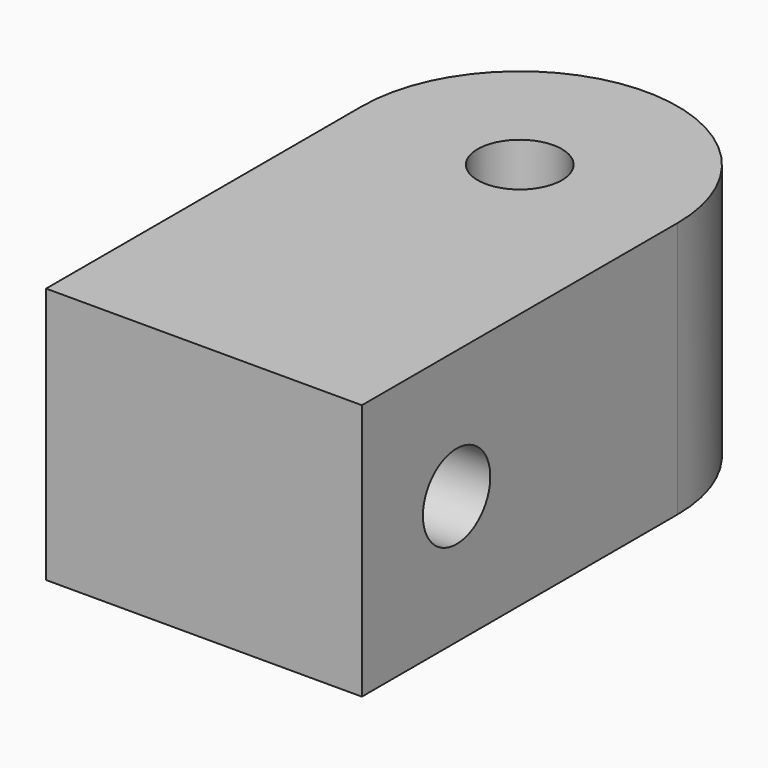
from build123d import *

# Parameters (mm, degrees)
PAD_DEPTH       = 9.75
SKETCH001_R     = 1.6
POCKET_DEPTH    = 9.751
SKETCH002_R     = 1.6
POCKET001_DEPTH = 12.001
POCKET002_DEPTH = 2.4


with BuildPart() as part:
    # Sketch → Pad (new body)
    with BuildSketch(Plane.XY):
        with BuildLine():
            ThreePointArc((6, 7.5), (0, 13.5), (-6, 7.5))
            Line((-6, 7.5), (-6, -7.5))
            Line((-6, -7.5), (6, -7.5))
            Line((6, -7.5), (6, 7.5))
        make_face()
    extrude(amount=PAD_DEPTH)

    # Sketch001 (on Face5 of Pad) → Pocket (cut, through all)
    with BuildSketch(Plane(origin=(0, 0, 0), x_dir=(1, 0, 0), z_dir=(0, 0, -1))):
        with Locations((0, -7.5)):
            Circle(SKETCH001_R)
    extrude(amount=-POCKET_DEPTH, mode=Mode.SUBTRACT)

    # Sketch002 (on Face3 of Pocket) → Pocket001 (cut, through all)
    with BuildSketch(Plane(origin=(-6, 0, 0), x_dir=(0, -1, 0), z_dir=(-1, 0, 0))):
        with Locations((3, 4.875)):
            Circle(SKETCH002_R)
    extrude(amount=-POCKET001_DEPTH, mode=Mode.SUBTRACT)

    # Sketch003 (on Face3 of Pocket001) → Pocket002 (cut)
    with BuildSketch(Plane(origin=(-6, 0, 0), x_dir=(0, -1, 0), z_dir=(-1, 0, 0))):
        Polygon((5.8, 6.491581), (3, 8.108162), (0.2, 6.491581), (0.2, 3.258419), (3, 1.641838), (5.8, 3.258419), align=None)
    extrude(amount=-POCKET002_DEPTH, mode=Mode.SUBTRACT)


solid = part.part
